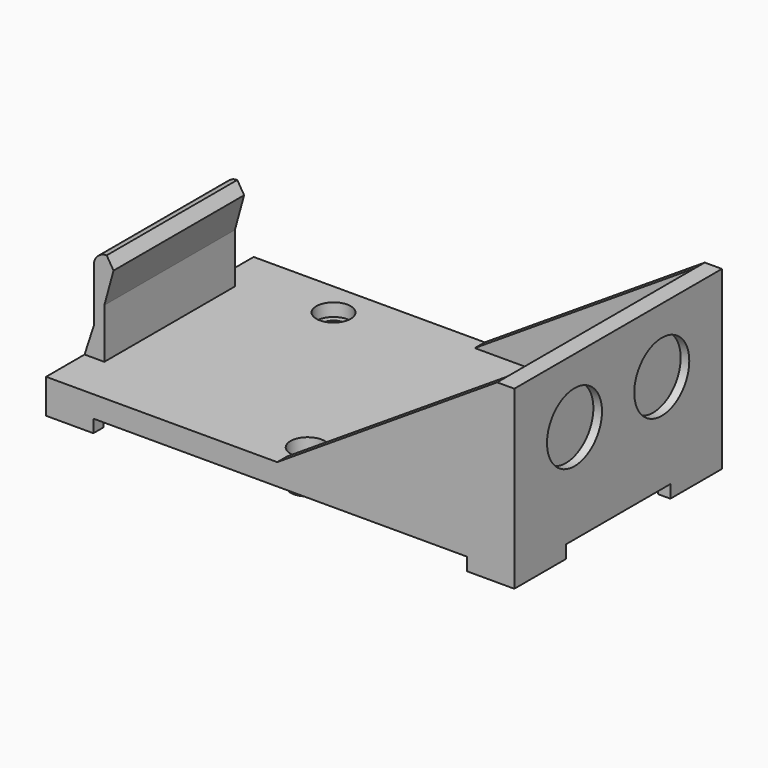
from build123d import *

# Parameters (mm, degrees)
SKETCH_W                = 54.5
SKETCH_H                = 30.2
PAD_DEPTH               = 2.5
PAD001_DEPTH            = 16.5
POCKET_DEPTH            = 30.201
PAD002_DEPTH            = 24.6
SKETCH004_W             = 5.6
SKETCH004_H             = 11
POCKET001_DEPTH         = 5
SKETCH005_R             = 2
PAD003_DEPTH            = 4
SKETCH006_R             = 2
POCKET002_DEPTH         = 1.5
SKETCH007_R             = 1.3
POCKET003_DEPTH         = 4.001
PAD004_DEPTH            = 1.5
PAD004_MIRRORED_2_DEPTH = 1.5
SKETCH012_R             = 4
POCKET006_DEPTH         = 1


with BuildPart() as part:
    # Sketch → Pad (new body)
    with BuildSketch(Plane.XY):
        Rectangle(SKETCH_W, SKETCH_H)
    extrude(amount=PAD_DEPTH)

    # Sketch001 (on Face6 of Pad) → Pad001 (join)
    with BuildSketch(Plane.XY.offset(2.5)):
        Polygon((27.25, 15.1), (27.25, -15.1), (-0.35, -15.1), (-0.35, -13.65), (25.25, -13.65), (25.25, 13.65), (-0.35, 13.65), (-0.35, 15.1), align=None)
    extrude(amount=PAD001_DEPTH)

    # Sketch002 (on Face15 of Pad001) → Pocket (cut, through all)
    with BuildSketch(Plane.XZ.offset(15.1)):
        Polygon((-0.35, 2.5), (25.25, 19), (27.25, 19), (27.25, 21), (-0.35, 21), align=None)
    extrude(amount=-POCKET_DEPTH, mode=Mode.SUBTRACT)

    # Sketch003 (on Face7 of Pocket) → Pad002 (join)
    with BuildSketch(Plane.XZ.offset(15.1)):
        with BuildLine():
            Line((-27.25, 2.5), (-26.177765, 5.8))
            Line((-26.177765, 5.8), (-26.177765, 12))
            ThreePointArc((-24.677765, 13.5), (-25.738425, 13.06066), (-26.177765, 12))
            Line((-24.677765, 13.5), (-23.877765, 12.2))
            Line((-23.877765, 12.2), (-24.95, 8.3))
            Line((-24.95, 8.3), (-24.95, 2.5))
            Line((-24.95, 2.5), (-27.25, 2.5))
        make_face()
    extrude(amount=-PAD002_DEPTH)

    # Sketch004 (on Face2 of Pad002) → Pocket001 (cut)
    with BuildSketch(Plane(origin=(-27.25, 0, 0), x_dir=(0, -1, 0), z_dir=(-1, 0, 0))):
        with Locations((12.3, 8)):
            Rectangle(SKETCH004_W, SKETCH004_H)
    extrude(amount=-POCKET001_DEPTH, mode=Mode.SUBTRACT)

    # Sketch005 (on Face5 of Pocket001) → Pad003 (join)
    with BuildSketch(Plane.XY.offset(2.5)):
        with Locations((-14.75, 11.1)):
            Circle(SKETCH005_R)
        with Locations((13.25, 11.1)):
            Circle(SKETCH005_R)
        with Locations((0, -11.1)):
            Circle(SKETCH005_R)
    extrude(amount=-PAD003_DEPTH)

    # Sketch006 (on Face5 of Pad003) → Pocket002 (cut)
    with BuildSketch(Plane.XY.offset(2.5)):
        with Locations((-14.75, 11.1)):
            Circle(SKETCH006_R)
        with Locations((13.25, 11.1)):
            Circle(SKETCH006_R)
        with Locations((0, -11.1)):
            Circle(SKETCH006_R)
    extrude(amount=-POCKET002_DEPTH, mode=Mode.SUBTRACT)

    # Sketch007 (on Face5 of Pocket002) → Pocket003 (cut, through all)
    with BuildSketch(Plane.XY.offset(2.5)):
        with Locations((-14.75, 11.1)):
            Circle(SKETCH007_R)
        with Locations((13.25, 11.1)):
            Circle(SKETCH007_R)
        with Locations((0, -11.1)):
            Circle(SKETCH007_R)
    extrude(amount=-POCKET003_DEPTH, mode=Mode.SUBTRACT)

    # Sketch008 (on Face4 of Pocket003) → Pad004 (join)
    with BuildSketch(Plane(origin=(0, 0, 0), x_dir=(1, 0, 0), z_dir=(0, 0, -1))):
        Polygon((-27.25, 15.1), (-21.75, 15.1), (-21.75, 13.65), (-25.8, 13.65), (-25.8, 7.6), (-27.25, 7.6), align=None)
    pad004 = extrude(amount=PAD004_DEPTH)

    # Sketch008 Mirrored 2 → Pad004 Mirrored 2 (add)
    with BuildSketch(Plane(origin=(0, 0, 0), x_dir=(-1, 0, 0), z_dir=(0, 0, 1))):
        Polygon((-27.25, 15.1), (-21.75, 15.1), (-21.75, 13.65), (-25.8, 13.65), (-25.8, 7.6), (-27.25, 7.6), align=None)
    pad004_mirrored_2 = extrude(amount=-PAD004_MIRRORED_2_DEPTH)

    # Mirrored001: Pad004, Pad004 Mirrored 2 across Sketch008 H_Axis
    add(pad004.mirror(Plane(origin=(0, 0, 0), x_dir=(0, 0, -1), z_dir=(0, -1, 0))))
    add(pad004_mirrored_2.mirror(Plane(origin=(0, 0, 0), x_dir=(0, 0, -1), z_dir=(0, -1, 0))))

    # Sketch012 (on Face16 of MultiTransform) → Pocket006 (cut)
    with BuildSketch(Plane.YZ.offset(27.25)):
        with Locations((-6.35, 11.5)):
            Circle(SKETCH012_R)
        with Locations((6.35, 11.5)):
            Circle(SKETCH012_R)
    extrude(amount=-POCKET006_DEPTH, mode=Mode.SUBTRACT)


solid = part.part
